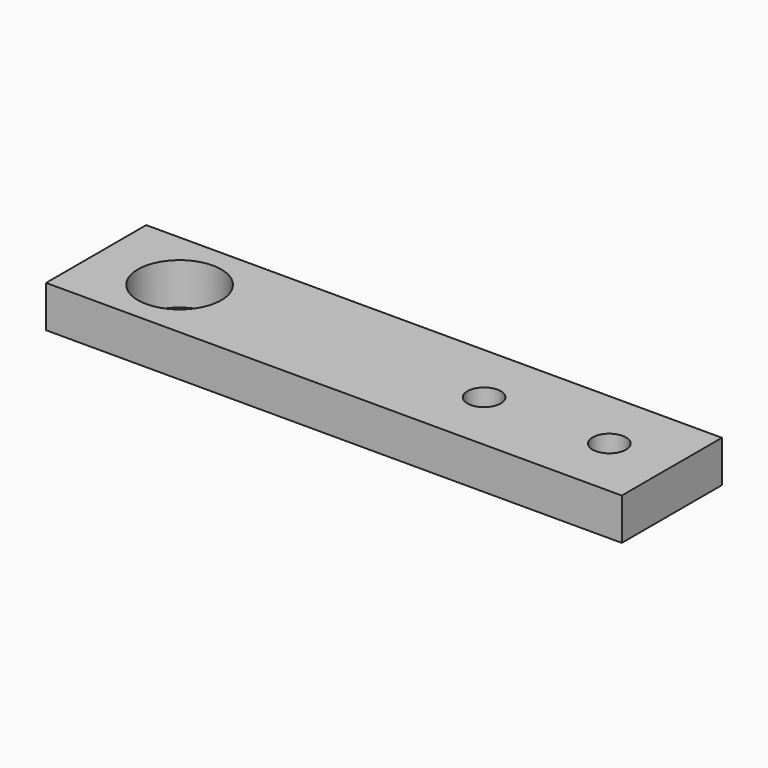
from build123d import *

# Parameters (mm, degrees)
F0_W     = 69
F0_H     = 15
F1_DEPTH = 5
F3_D     = 10
F5_D     = 4


with BuildPart() as f1:
    # F0 (on Top) → F1 (new body)
    with BuildSketch(Plane.XY):
        Rectangle(F0_W, F0_H)
    extrude(amount=F1_DEPTH)

    # F3 (through all)
    with Locations(Plane.XY.offset(5)):
        with Locations((-24.5, 0)):
            Hole(F3_D / 2)

    # F5 (through all)
    with Locations(Plane.XY.offset(5)):
        with Locations((12, 0), (27, 0)):
            Hole(F5_D / 2)


solid = f1.part
